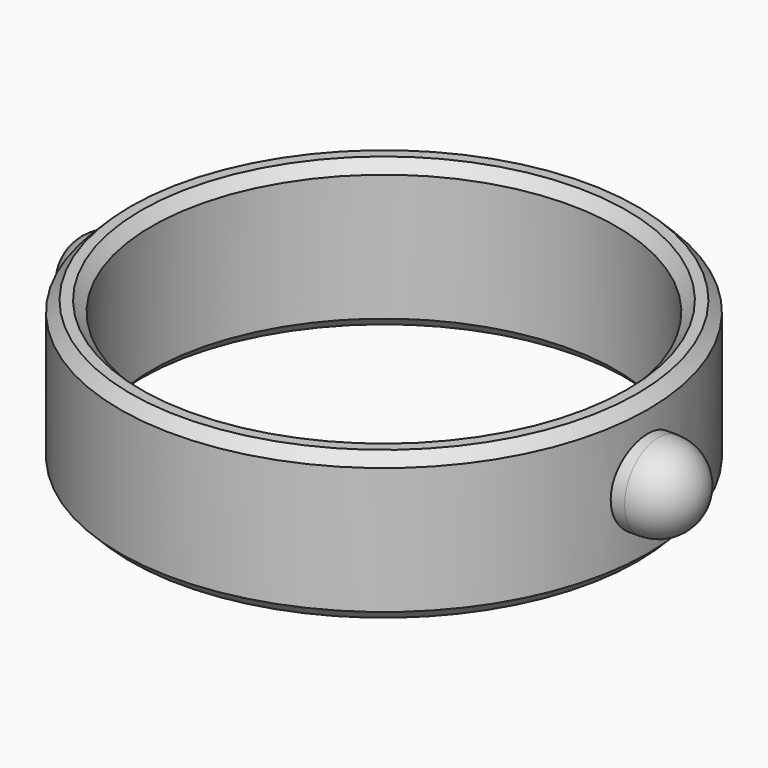
from build123d import *

# Parameters (mm, degrees)
F0_R     = 12.5
F0_R_2   = 11
F1_DEPTH = 7
F2_SIZE  = 0.5
F4_R     = 2
F5_DEPTH = 4
F7_R     = 2


with BuildPart() as f1:
    # F0 (on Top) → F1 (new body)
    with BuildSketch(Plane.XY):
        Circle(F0_R)
        Circle(F0_R_2, mode=Mode.SUBTRACT)
    extrude(amount=F1_DEPTH)

    # F2
    f2_edges = [f1.edges().sort_by_distance(p)[0] for p in [
        (-11, 0, 7),
        (-12.5, 0, 7),
        (-12.5, 0, 0),
        (-11, 0, 0),
    ]]
    chamfer(f2_edges, length=F2_SIZE)

    # F4 (on offset) → F5 (join)
    with BuildSketch(Plane.YZ.offset(11)):
        with Locations((0, 3.5)):
            Circle(F4_R)
    extrude(amount=F5_DEPTH)

    # F6: F1 across plane


with BuildPart() as f1_1:
    add(f1.part)
    add(f1.part.mirror(Plane.YZ))

    # F7
    f7_edges = [f1_1.edges().sort_by_distance(p)[0] for p in [
        (-15, -2, 3.5),
        (15, -2, 3.5),
    ]]
    fillet(f7_edges, radius=F7_R)


solid = f1_1.part
